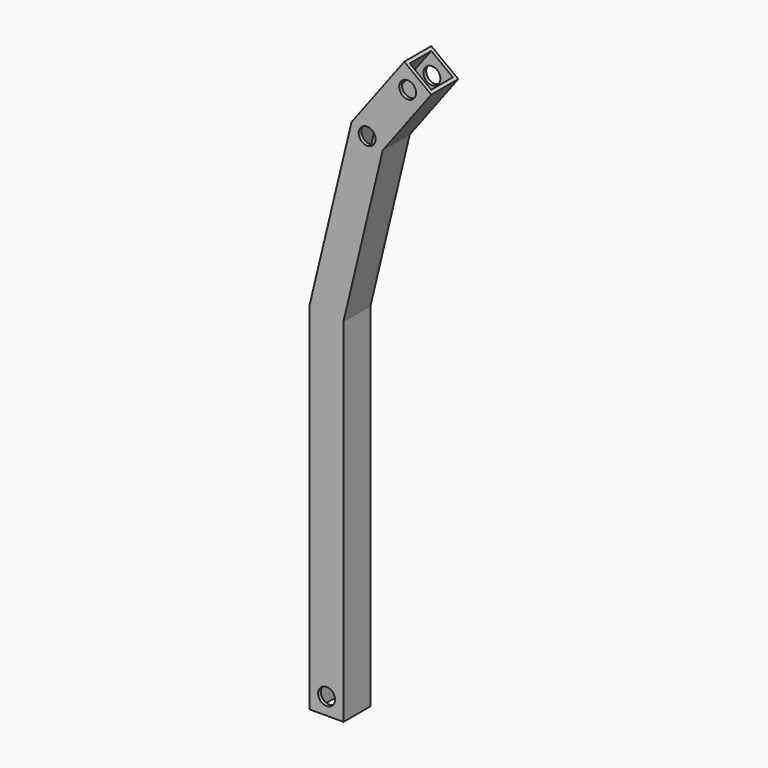
from build123d import *

# Parameters (mm, degrees)
PAD_DEPTH    = 10
THICKNESS_T  = -1
SKETCH001_R  = 2.5
POCKET_DEPTH = 10.001


with BuildPart() as part:
    # Sketch → Pad (new body)
    with BuildSketch(Plane.XZ):
        Polygon((-5, 0), (5, 0), (5, 104.4084), (16.620565, 152.82742), (31, 172), (23, 178), (7.379435, 157.17258), (-5, 105.5916), align=None)
    extrude(amount=PAD_DEPTH)

    # Thickness
    thickness_openings = [part.faces().sort_by_distance(p)[0] for p in [
        (27, -5, 175),
        (0, -5, 0),
    ]]
    offset(amount=THICKNESS_T, openings=thickness_openings)

    # Sketch001 (on Face8 of Thickness) → Pocket (cut, through all)
    with BuildSketch(Plane.XZ.offset(10)):
        with Locations((0, 5)):
            Circle(SKETCH001_R)
        with Locations((12, 155)):
            Circle(SKETCH001_R)
        with Locations((24, 171)):
            Circle(SKETCH001_R)
    extrude(amount=-POCKET_DEPTH, mode=Mode.SUBTRACT)


solid = part.part
